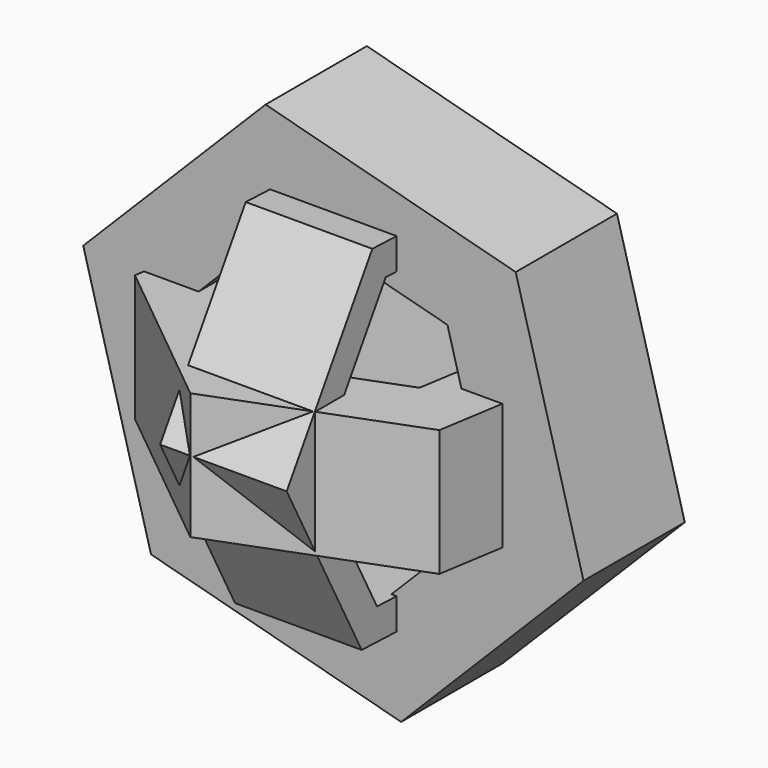
from build123d import *

# Parameters (mm, degrees)
F1_DEPTH = 12.7
F3_DEPTH = 12.7
F5_DEPTH = 12.7


with BuildPart() as f1:
    # F0 (on Top) → F1 (new body, symmetric)
    with BuildSketch(Plane.XY):
        Polygon((-38.285638, -14.609469), (-6.490647, -40.46107), (31.79499, -25.8516), (38.285638, 14.609469), (6.490647, 40.46107), (-31.79499, 25.8516), align=None)
        Polygon((20.380874, -16.571108), (-4.160563, -25.935908), (-24.541437, -9.364801), (-20.380874, 16.571108), (4.160563, 25.935908), (24.541437, 9.364801), align=None, mode=Mode.SUBTRACT)
    extrude(amount=F1_DEPTH, both=True)

    # F2 (on Front) → F3 (join, symmetric)
    with BuildSketch(Plane.XZ):
        Polygon((-36.587807, -36.830874), (13.602569, -50.101408), (50.190376, -13.270534), (36.587807, 36.830874), (-13.602569, 50.101408), (-50.190376, 13.270534), align=None)
        Polygon((31.404369, -8.303439), (8.511195, -31.348701), (-22.893174, -23.045262), (-31.404369, 8.303439), (-8.511195, 31.348701), (22.893174, 23.045262), align=None, mode=Mode.SUBTRACT)
    extrude(amount=F3_DEPTH, both=True)

    # F4 (on Right) → F5 (join, symmetric)
    with BuildSketch(Plane.YZ):
        Polygon((-18.805379, 35.656759), (-40.282349, 1.542443), (-21.47697, -34.114316), (18.805379, -35.656759), (40.282349, -1.542443), (21.47697, 34.114316), align=None)
        Polygon((-17.626668, -27.998443), (-33.060696, 1.265921), (-15.434029, 29.264363), (17.626668, 27.998443), (33.060696, -1.265921), (15.434029, -29.264363), align=None, mode=Mode.SUBTRACT)
    extrude(amount=F5_DEPTH, both=True)


solid = f1.part
